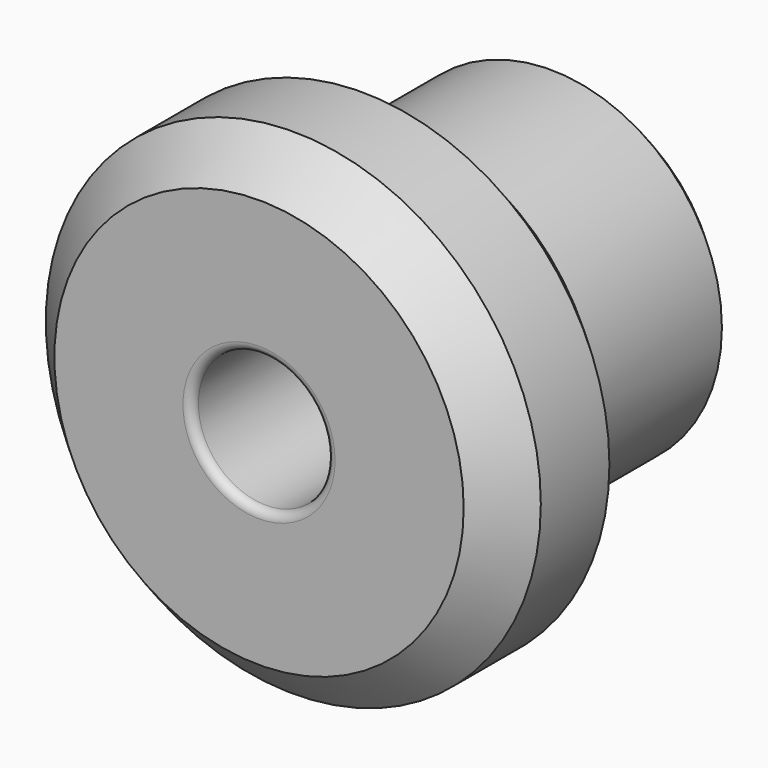
from build123d import *

# Parameters (mm, degrees)
F0_R     = 4
F1_DEPTH = 5
F2_R     = 5.775
F2_R_2   = 4
F3_DEPTH = 4
F4_R     = 1.575
F5_DEPTH = 10
F6_SIZE  = 1
F7_SIZE  = 0.5
F8_R     = 0.2


with BuildPart() as f1:
    # F0 (on Front) → F1 (new body)
    with BuildSketch(Plane.XZ):
        Circle(F0_R)
    extrude(amount=F1_DEPTH)

    # F2 (on face) → F3 (join)
    with BuildSketch(Plane.XZ.offset(5)):
        Circle(F2_R)
        Circle(F2_R_2, mode=Mode.SUBTRACT)
        Circle(F2_R_2)
    extrude(amount=F3_DEPTH)

    # F4 (on face) → F5 (cut)
    with BuildSketch(Plane.XZ.offset(9)):
        Circle(F4_R)
    extrude(amount=-F5_DEPTH, mode=Mode.SUBTRACT)

    # F6
    f6_edges = [f1.edges().sort_by_distance(p)[0] for p in [
        (-5.775, -9, 0),
        (-5.775, -5, 0),
    ]]
    chamfer(f6_edges, length=F6_SIZE)

    # F7
    f7_edges = [f1.edges().sort_by_distance(p)[0] for p in [
        (-4, 0, 0),
    ]]
    chamfer(f7_edges, length=F7_SIZE)

    # F8
    f8_edges = [f1.edges().sort_by_distance(p)[0] for p in [
        (-1.575, -9, 0),
        (-1.575, 0, 0),
    ]]
    fillet(f8_edges, radius=F8_R)


solid = f1.part
